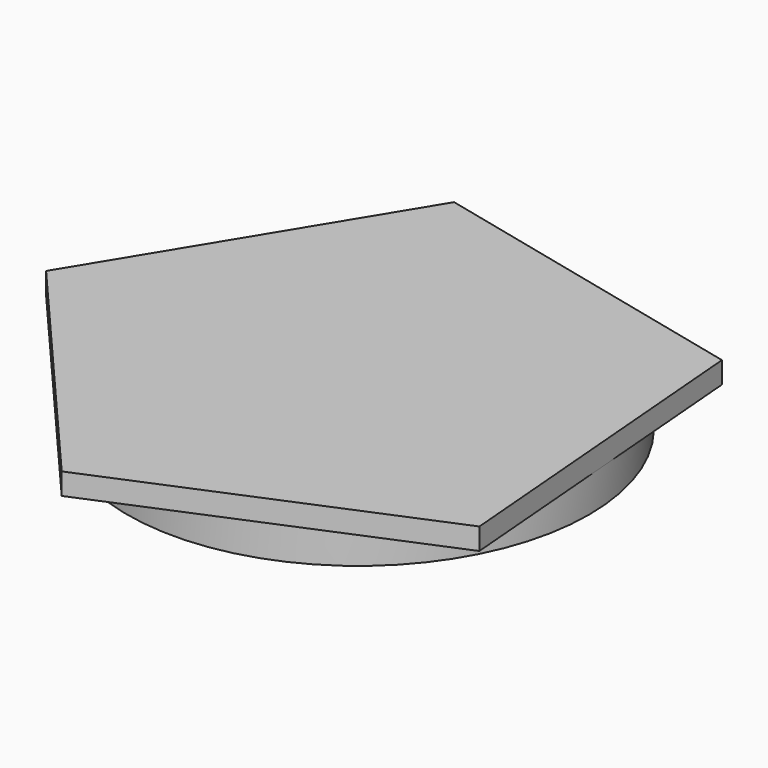
from build123d import *

# Parameters (mm, degrees)
F2_DEPTH = 2.032
F1_R     = 21.71745
F3_DEPTH = 3.302


with BuildPart() as f2:
    # F0 (on Top) → F2 (new body)
    with BuildSketch(Plane.XY):
        Polygon((-17.359483, 4.980672), (-19.985211, 36.781136), (-51.040644, 44.110804), (-67.608229, 16.840324), (-46.792126, -7.343427), align=None)
    extrude(amount=F2_DEPTH)

    # F1 (on Top) → F3 (join)
    with BuildSketch(Plane.XY):
        with Locations((-40.35636, 19.475458)):
            Circle(F1_R)
    extrude(amount=-F3_DEPTH)


solid = f2.part
